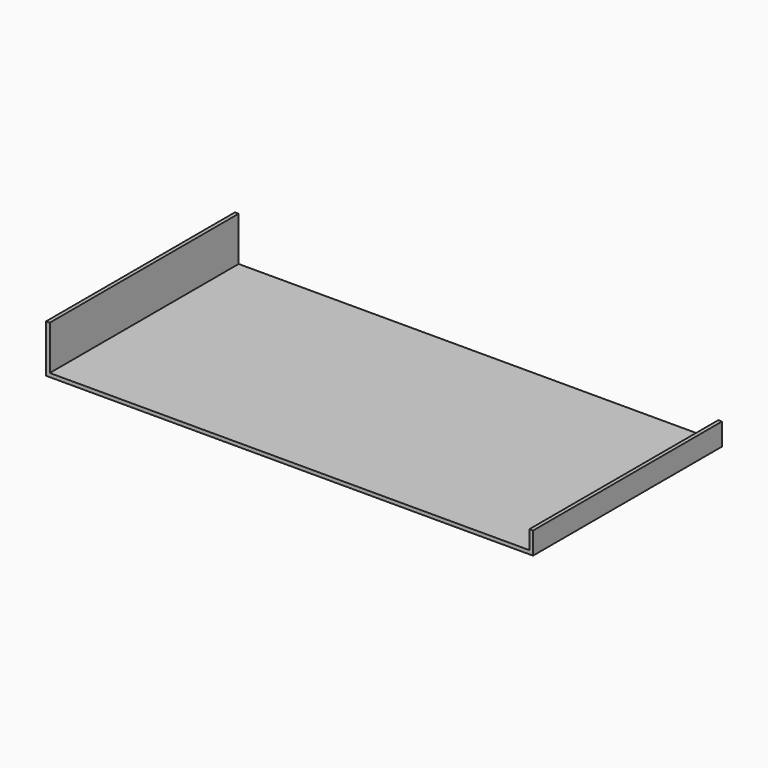
from build123d import *

# Parameters (mm, degrees)
F0_W     = 650
F0_H     = 5
F1_DEPTH = 320


with BuildPart() as f1:
    # F0 (on Front) → F1 (new body)
    with BuildSketch(Plane.XZ):
        Rectangle(F0_W, F0_H)
        Polygon((325, 2.5), (325, -2.5), (330, -2.5), (330, 27.5), (325, 27.5), align=None)
        Polygon((-330, -2.5), (-325, -2.5), (-325, 2.5), (-325, 62.5), (-330, 62.5), align=None)
    extrude(amount=F1_DEPTH)


solid = f1.part
